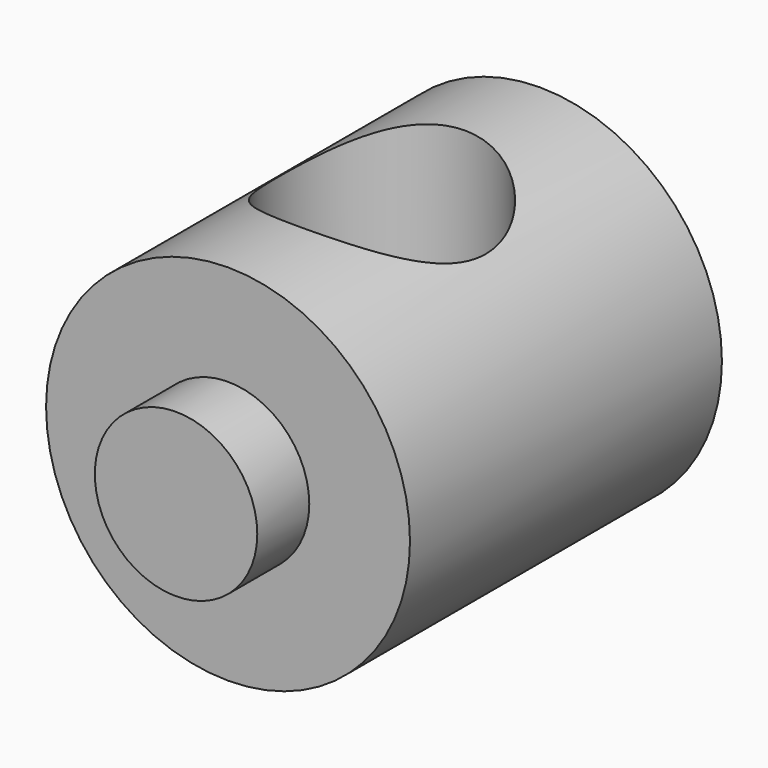
from build123d import *

# Parameters (mm, degrees)
F0_R     = 8.89
F1_DEPTH = 19.05
F2_R     = 3.96875
F3_DEPTH = 3.175
F4_R     = 3.96875
F5_DEPTH = 3.175
F7_R     = 5.08
F8_DEPTH = 25.4


with BuildPart() as f1:
    # F0 (on Front) → F1 (new body)
    with BuildSketch(Plane.XZ):
        Circle(F0_R)
    extrude(amount=F1_DEPTH)

    # F2 (on face) → F3 (join)
    with BuildSketch(Plane.XZ.offset(19.05)):
        Circle(F2_R)
    extrude(amount=F3_DEPTH)

    # F4 (on face) → F5 (join)
    with BuildSketch(Plane(origin=(0, 0, 0), x_dir=(-1, 0, 0), z_dir=(0, 1, 0))):
        Circle(F4_R)
    extrude(amount=F5_DEPTH)

    # F7 (on offset) → F8 (cut)
    with BuildSketch(Plane.XY.offset(10.16)):
        with Locations((0, -9.652)):
            Circle(F7_R)
    extrude(amount=-F8_DEPTH, mode=Mode.SUBTRACT)


solid = f1.part
